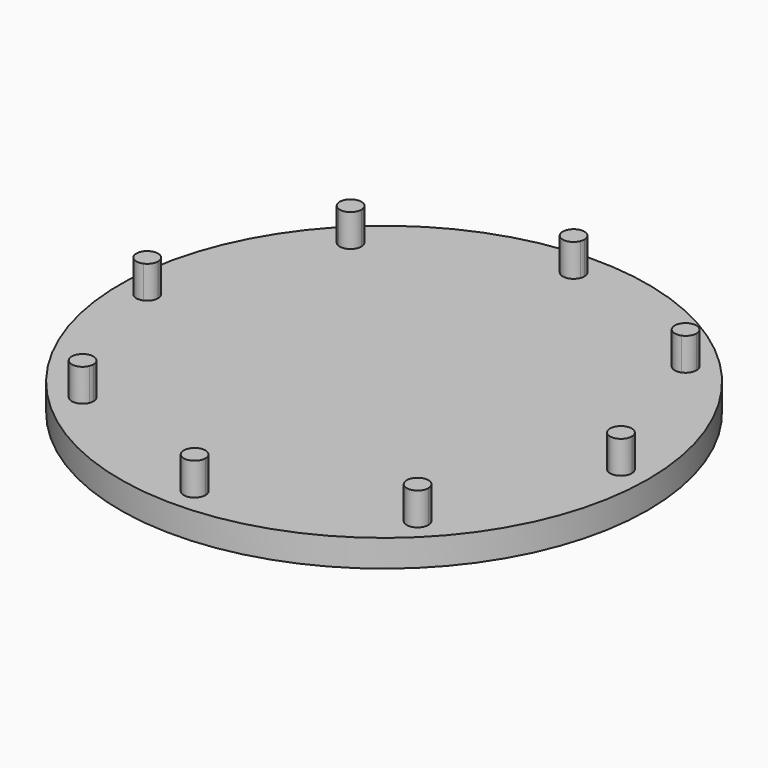
from build123d import *

# Parameters (mm, degrees)
F0_R     = 97.5
F1_DEPTH = 10
F2_DEPTH = 22


with BuildPart() as f1:
    # F0 (on Top) → F1 (new body)
    with BuildSketch(Plane.XY):
        Circle(F0_R)
        with BuildLine():
            ThreePointArc((91.5, 0), (89.7222809321, -3.3258784492), (85.9692662705, -3.69551813))
            Line((85.9692662705, -3.69551813), (63.4025770833, -58.1763252238))
            ThreePointArc((63.4025770833, -58.1763252238), (65.197721803, -59.6495624217), (65.8718433538, -61.8718433538))
            ThreePointArc((65.8718433538, -61.8718433538), (62.6522046419, -65.7949844754), (58.1763252238, -63.4025770833))
            Line((58.1763252238, -63.4025770833), (3.69551813, -85.9692662705))
            ThreePointArc((3.69551813, -85.9692662705), (3.9231411216, -86.7196387119), (4, -87.5))
            ThreePointArc((4, -87.5), (-0.7803612881, -91.4231411216), (-3.69551813, -85.9692662705))
            Line((-3.69551813, -85.9692662705), (-58.1763252238, -63.4025770833))
            ThreePointArc((-58.1763252238, -63.4025770833), (-64.7002704786, -64.7002704786), (-63.4025770833, -58.1763252238))
            Line((-63.4025770833, -58.1763252238), (-85.9692662705, -3.69551813))
            ThreePointArc((-85.9692662705, -3.69551813), (-91.5, 0), (-85.9692662705, 3.69551813))
            Line((-85.9692662705, 3.69551813), (-63.4025770833, 58.1763252238))
            ThreePointArc((-63.4025770833, 58.1763252238), (-64.7002704786, 64.7002704786), (-58.1763252238, 63.4025770833))
            Line((-58.1763252238, 63.4025770833), (-3.69551813, 85.9692662705))
            ThreePointArc((-3.69551813, 85.9692662705), (-0.7803612881, 91.4231411216), (4, 87.5))
            ThreePointArc((4, 87.5), (3.9231411216, 86.7196387119), (3.69551813, 85.9692662705))
            Line((3.69551813, 85.9692662705), (58.1763252238, 63.4025770833))
            ThreePointArc((58.1763252238, 63.4025770833), (62.6522046419, 65.7949844754), (65.8718433538, 61.8718433538))
            ThreePointArc((65.8718433538, 61.8718433538), (65.197721803, 59.6495624217), (63.4025770833, 58.1763252238))
            Line((63.4025770833, 58.1763252238), (85.9692662705, 3.69551813))
            ThreePointArc((85.9692662705, 3.69551813), (89.7222809321, 3.3258784492), (91.5, 0))
        make_face(mode=Mode.SUBTRACT)
        with BuildLine():
            Line((63.4025770833, -58.1763252238), (85.9692662705, -3.69551813))
            ThreePointArc((85.9692662705, -3.69551813), (83.5, 0), (85.9692662705, 3.69551813))
            Line((85.9692662705, 3.69551813), (63.4025770833, 58.1763252238))
            ThreePointArc((63.4025770833, 58.1763252238), (59.0434162291, 59.0434162291), (58.1763252238, 63.4025770833))
            Line((58.1763252238, 63.4025770833), (3.69551813, 85.9692662705))
            ThreePointArc((3.69551813, 85.9692662705), (0, 83.5), (-3.69551813, 85.9692662705))
            Line((-3.69551813, 85.9692662705), (-58.1763252238, 63.4025770833))
            ThreePointArc((-58.1763252238, 63.4025770833), (-57.9487022322, 62.6522046419), (-57.8718433538, 61.8718433538))
            ThreePointArc((-57.8718433538, 61.8718433538), (-59.6495624217, 58.5459649046), (-63.4025770833, 58.1763252238))
            Line((-63.4025770833, 58.1763252238), (-85.9692662705, 3.69551813))
            ThreePointArc((-85.9692662705, 3.69551813), (-84.1741215508, 2.2222809321), (-83.5, 0))
            ThreePointArc((-83.5, 0), (-84.1741215508, -2.2222809321), (-85.9692662705, -3.69551813))
            Line((-85.9692662705, -3.69551813), (-63.4025770833, -58.1763252238))
            ThreePointArc((-63.4025770833, -58.1763252238), (-59.6495624217, -58.5459649046), (-57.8718433538, -61.8718433538))
            ThreePointArc((-57.8718433538, -61.8718433538), (-57.9487022322, -62.6522046419), (-58.1763252238, -63.4025770833))
            Line((-58.1763252238, -63.4025770833), (-3.69551813, -85.9692662705))
            ThreePointArc((-3.69551813, -85.9692662705), (0, -83.5), (3.69551813, -85.9692662705))
            Line((3.69551813, -85.9692662705), (58.1763252238, -63.4025770833))
            ThreePointArc((58.1763252238, -63.4025770833), (59.0434162291, -59.0434162291), (63.4025770833, -58.1763252238))
        make_face()
        with BuildLine():
            Line((-61.8718433538, 61.8718433538), (-58.1763252238, 63.4025770833))
            ThreePointArc((-58.1763252238, 63.4025770833), (-64.7002704786, 64.7002704786), (-63.4025770833, 58.1763252238))
            Line((-63.4025770833, 58.1763252238), (-61.8718433538, 61.8718433538))
        make_face()
        with BuildLine():
            Line((0, 87.5), (3.69551813, 85.9692662705))
            ThreePointArc((3.69551813, 85.9692662705), (3.9231411216, 86.7196387119), (4, 87.5))
            ThreePointArc((4, 87.5), (-0.7803612881, 91.4231411216), (-3.69551813, 85.9692662705))
            Line((-3.69551813, 85.9692662705), (0, 87.5))
        make_face()
        with BuildLine():
            Line((61.8718433538, 61.8718433538), (63.4025770833, 58.1763252238))
            ThreePointArc((63.4025770833, 58.1763252238), (65.197721803, 59.6495624217), (65.8718433538, 61.8718433538))
            ThreePointArc((65.8718433538, 61.8718433538), (62.6522046419, 65.7949844754), (58.1763252238, 63.4025770833))
            Line((58.1763252238, 63.4025770833), (61.8718433538, 61.8718433538))
        make_face()
        with BuildLine():
            Line((85.9692662705, 3.69551813), (87.5, 0))
            Line((87.5, 0), (85.9692662705, -3.69551813))
            ThreePointArc((85.9692662705, -3.69551813), (89.7222809321, -3.3258784492), (91.5, 0))
            ThreePointArc((91.5, 0), (89.7222809321, 3.3258784492), (85.9692662705, 3.69551813))
        make_face()
        with BuildLine():
            ThreePointArc((65.8718433538, -61.8718433538), (65.197721803, -59.6495624217), (63.4025770833, -58.1763252238))
            Line((63.4025770833, -58.1763252238), (61.8718433538, -61.8718433538))
            Line((61.8718433538, -61.8718433538), (58.1763252238, -63.4025770833))
            ThreePointArc((58.1763252238, -63.4025770833), (62.6522046419, -65.7949844754), (65.8718433538, -61.8718433538))
        make_face()
        with BuildLine():
            ThreePointArc((4, -87.5), (3.9231411216, -86.7196387119), (3.69551813, -85.9692662705))
            Line((3.69551813, -85.9692662705), (0, -87.5))
            Line((0, -87.5), (-3.69551813, -85.9692662705))
            ThreePointArc((-3.69551813, -85.9692662705), (-0.7803612881, -91.4231411216), (4, -87.5))
        make_face()
        with BuildLine():
            ThreePointArc((-63.4025770833, -58.1763252238), (-64.7002704786, -64.7002704786), (-58.1763252238, -63.4025770833))
            Line((-58.1763252238, -63.4025770833), (-61.8718433538, -61.8718433538))
            Line((-61.8718433538, -61.8718433538), (-63.4025770833, -58.1763252238))
        make_face()
        with BuildLine():
            ThreePointArc((-85.9692662705, 3.69551813), (-91.5, 0), (-85.9692662705, -3.69551813))
            Line((-85.9692662705, -3.69551813), (-87.5, 0))
            Line((-87.5, 0), (-85.9692662705, 3.69551813))
        make_face()
        with BuildLine():
            ThreePointArc((-57.8718433538, 61.8718433538), (-57.9487022322, 62.6522046419), (-58.1763252238, 63.4025770833))
            Line((-58.1763252238, 63.4025770833), (-61.8718433538, 61.8718433538))
            Line((-61.8718433538, 61.8718433538), (-63.4025770833, 58.1763252238))
            ThreePointArc((-63.4025770833, 58.1763252238), (-59.6495624217, 58.5459649046), (-57.8718433538, 61.8718433538))
        make_face()
        with BuildLine():
            ThreePointArc((-3.69551813, 85.9692662705), (0, 83.5), (3.69551813, 85.9692662705))
            Line((3.69551813, 85.9692662705), (0, 87.5))
            Line((0, 87.5), (-3.69551813, 85.9692662705))
        make_face()
        with BuildLine():
            ThreePointArc((58.1763252238, 63.4025770833), (59.0434162291, 59.0434162291), (63.4025770833, 58.1763252238))
            Line((63.4025770833, 58.1763252238), (61.8718433538, 61.8718433538))
            Line((61.8718433538, 61.8718433538), (58.1763252238, 63.4025770833))
        make_face()
        with BuildLine():
            Line((85.9692662705, -3.69551813), (87.5, 0))
            Line((87.5, 0), (85.9692662705, 3.69551813))
            ThreePointArc((85.9692662705, 3.69551813), (83.5, 0), (85.9692662705, -3.69551813))
        make_face()
        with BuildLine():
            Line((61.8718433538, -61.8718433538), (63.4025770833, -58.1763252238))
            ThreePointArc((63.4025770833, -58.1763252238), (59.0434162291, -59.0434162291), (58.1763252238, -63.4025770833))
            Line((58.1763252238, -63.4025770833), (61.8718433538, -61.8718433538))
        make_face()
        with BuildLine():
            Line((0, -87.5), (3.69551813, -85.9692662705))
            ThreePointArc((3.69551813, -85.9692662705), (0, -83.5), (-3.69551813, -85.9692662705))
            Line((-3.69551813, -85.9692662705), (0, -87.5))
        make_face()
        with BuildLine():
            Line((-61.8718433538, -61.8718433538), (-58.1763252238, -63.4025770833))
            ThreePointArc((-58.1763252238, -63.4025770833), (-57.9487022322, -62.6522046419), (-57.8718433538, -61.8718433538))
            ThreePointArc((-57.8718433538, -61.8718433538), (-59.6495624217, -58.5459649046), (-63.4025770833, -58.1763252238))
            Line((-63.4025770833, -58.1763252238), (-61.8718433538, -61.8718433538))
        make_face()
        with BuildLine():
            Line((-87.5, 0), (-85.9692662705, -3.69551813))
            ThreePointArc((-85.9692662705, -3.69551813), (-84.1741215508, -2.2222809321), (-83.5, 0))
            ThreePointArc((-83.5, 0), (-84.1741215508, 2.2222809321), (-85.9692662705, 3.69551813))
            Line((-85.9692662705, 3.69551813), (-87.5, 0))
        make_face()
    extrude(amount=F1_DEPTH)

    # F0 (on Top) → F2 (join)
    with BuildSketch(Plane.XY):
        with BuildLine():
            Line((0, 87.5), (3.69551813, 85.9692662705))
            ThreePointArc((3.69551813, 85.9692662705), (3.9231411216, 86.7196387119), (4, 87.5))
            ThreePointArc((4, 87.5), (-0.7803612881, 91.4231411216), (-3.69551813, 85.9692662705))
            Line((-3.69551813, 85.9692662705), (0, 87.5))
        make_face()
        with BuildLine():
            ThreePointArc((-3.69551813, 85.9692662705), (0, 83.5), (3.69551813, 85.9692662705))
            Line((3.69551813, 85.9692662705), (0, 87.5))
            Line((0, 87.5), (-3.69551813, 85.9692662705))
        make_face()
        with BuildLine():
            Line((-61.8718433538, 61.8718433538), (-58.1763252238, 63.4025770833))
            ThreePointArc((-58.1763252238, 63.4025770833), (-64.7002704786, 64.7002704786), (-63.4025770833, 58.1763252238))
            Line((-63.4025770833, 58.1763252238), (-61.8718433538, 61.8718433538))
        make_face()
        with BuildLine():
            ThreePointArc((-57.8718433538, 61.8718433538), (-57.9487022322, 62.6522046419), (-58.1763252238, 63.4025770833))
            Line((-58.1763252238, 63.4025770833), (-61.8718433538, 61.8718433538))
            Line((-61.8718433538, 61.8718433538), (-63.4025770833, 58.1763252238))
            ThreePointArc((-63.4025770833, 58.1763252238), (-59.6495624217, 58.5459649046), (-57.8718433538, 61.8718433538))
        make_face()
        with BuildLine():
            ThreePointArc((-85.9692662705, 3.69551813), (-91.5, 0), (-85.9692662705, -3.69551813))
            Line((-85.9692662705, -3.69551813), (-87.5, 0))
            Line((-87.5, 0), (-85.9692662705, 3.69551813))
        make_face()
        with BuildLine():
            Line((-87.5, 0), (-85.9692662705, -3.69551813))
            ThreePointArc((-85.9692662705, -3.69551813), (-84.1741215508, -2.2222809321), (-83.5, 0))
            ThreePointArc((-83.5, 0), (-84.1741215508, 2.2222809321), (-85.9692662705, 3.69551813))
            Line((-85.9692662705, 3.69551813), (-87.5, 0))
        make_face()
        with BuildLine():
            ThreePointArc((-63.4025770833, -58.1763252238), (-64.7002704786, -64.7002704786), (-58.1763252238, -63.4025770833))
            Line((-58.1763252238, -63.4025770833), (-61.8718433538, -61.8718433538))
            Line((-61.8718433538, -61.8718433538), (-63.4025770833, -58.1763252238))
        make_face()
        with BuildLine():
            Line((-61.8718433538, -61.8718433538), (-58.1763252238, -63.4025770833))
            ThreePointArc((-58.1763252238, -63.4025770833), (-57.9487022322, -62.6522046419), (-57.8718433538, -61.8718433538))
            ThreePointArc((-57.8718433538, -61.8718433538), (-59.6495624217, -58.5459649046), (-63.4025770833, -58.1763252238))
            Line((-63.4025770833, -58.1763252238), (-61.8718433538, -61.8718433538))
        make_face()
        with BuildLine():
            ThreePointArc((4, -87.5), (3.9231411216, -86.7196387119), (3.69551813, -85.9692662705))
            Line((3.69551813, -85.9692662705), (0, -87.5))
            Line((0, -87.5), (-3.69551813, -85.9692662705))
            ThreePointArc((-3.69551813, -85.9692662705), (-0.7803612881, -91.4231411216), (4, -87.5))
        make_face()
        with BuildLine():
            Line((0, -87.5), (3.69551813, -85.9692662705))
            ThreePointArc((3.69551813, -85.9692662705), (0, -83.5), (-3.69551813, -85.9692662705))
            Line((-3.69551813, -85.9692662705), (0, -87.5))
        make_face()
        with BuildLine():
            ThreePointArc((65.8718433538, -61.8718433538), (65.197721803, -59.6495624217), (63.4025770833, -58.1763252238))
            Line((63.4025770833, -58.1763252238), (61.8718433538, -61.8718433538))
            Line((61.8718433538, -61.8718433538), (58.1763252238, -63.4025770833))
            ThreePointArc((58.1763252238, -63.4025770833), (62.6522046419, -65.7949844754), (65.8718433538, -61.8718433538))
        make_face()
        with BuildLine():
            Line((61.8718433538, -61.8718433538), (63.4025770833, -58.1763252238))
            ThreePointArc((63.4025770833, -58.1763252238), (59.0434162291, -59.0434162291), (58.1763252238, -63.4025770833))
            Line((58.1763252238, -63.4025770833), (61.8718433538, -61.8718433538))
        make_face()
        with BuildLine():
            Line((85.9692662705, 3.69551813), (87.5, 0))
            Line((87.5, 0), (85.9692662705, -3.69551813))
            ThreePointArc((85.9692662705, -3.69551813), (89.7222809321, -3.3258784492), (91.5, 0))
            ThreePointArc((91.5, 0), (89.7222809321, 3.3258784492), (85.9692662705, 3.69551813))
        make_face()
        with BuildLine():
            Line((85.9692662705, -3.69551813), (87.5, 0))
            Line((87.5, 0), (85.9692662705, 3.69551813))
            ThreePointArc((85.9692662705, 3.69551813), (83.5, 0), (85.9692662705, -3.69551813))
        make_face()
        with BuildLine():
            Line((61.8718433538, 61.8718433538), (63.4025770833, 58.1763252238))
            ThreePointArc((63.4025770833, 58.1763252238), (65.197721803, 59.6495624217), (65.8718433538, 61.8718433538))
            ThreePointArc((65.8718433538, 61.8718433538), (62.6522046419, 65.7949844754), (58.1763252238, 63.4025770833))
            Line((58.1763252238, 63.4025770833), (61.8718433538, 61.8718433538))
        make_face()
        with BuildLine():
            ThreePointArc((58.1763252238, 63.4025770833), (59.0434162291, 59.0434162291), (63.4025770833, 58.1763252238))
            Line((63.4025770833, 58.1763252238), (61.8718433538, 61.8718433538))
            Line((61.8718433538, 61.8718433538), (58.1763252238, 63.4025770833))
        make_face()
    extrude(amount=F2_DEPTH)


solid = f1.part
